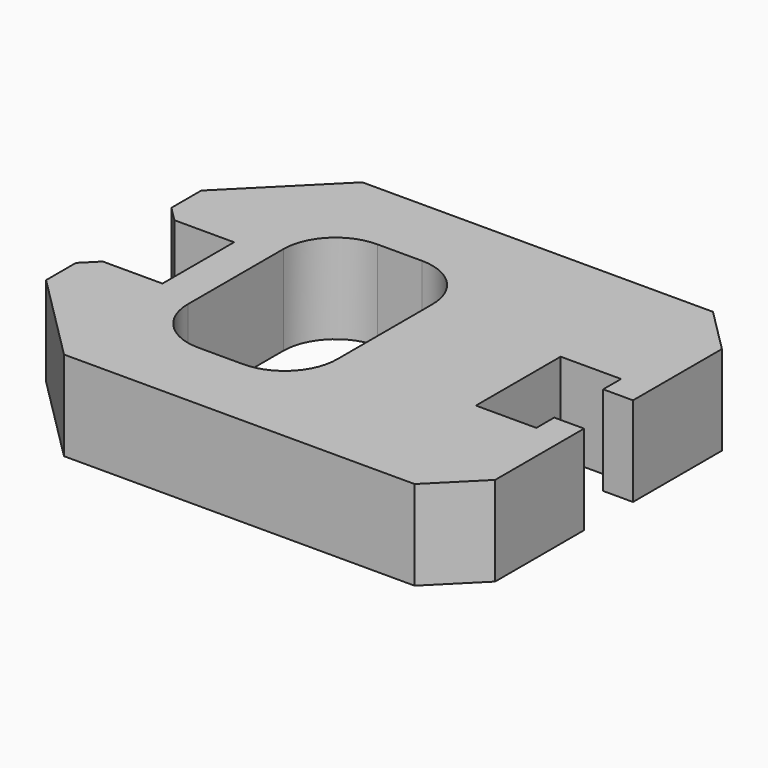
from build123d import *

# Parameters (mm, degrees)
F1_DEPTH = 12
F2_W     = 12
F2_H     = 12
F3_DEPTH = 25
F4_SIZE  = 6
F5_W     = 20
F5_H     = 30
F6_DEPTH = 30
F7_R     = 7
F9_DEPTH = 25
F10_SIZE = 12
F11_SIZE = 2


with BuildPart() as f1:
    # F0 (on Top) → F1 (new body)
    with BuildSketch(Plane.XY):
        Polygon((40, 25), (-40, 25), (-40, -25), (40, -25), (40, -4.1), (36, -4.1), (36, -7.1), (27.9, -7.1), (27.9, 7.1), (36, 7.1), (36, 4.1), (40, 4.1), align=None)
    extrude(amount=F1_DEPTH)

    # F2 (on face) → F3 (cut)
    with BuildSketch(Plane(origin=(-40, 0, 0), x_dir=(0, -1, 0), z_dir=(-1, 0, 0))):
        with Locations((0, 6)):
            Rectangle(F2_W, F2_H)
    extrude(amount=-F3_DEPTH, mode=Mode.SUBTRACT)

    # F4
    f4_edges = [f1.edges().sort_by_distance(p)[0] for p in [
        (-40, -25, 6),
        (-40, 25, 6),
        (-40, 6, 6),
        (-40, -6, 6),
        (40, -25, 6),
        (40, 25, 6),
    ]]
    chamfer(f4_edges, length=F4_SIZE)

    # F5 (on face) → F6 (cut)
    with BuildSketch(Plane(origin=(0, 0, 0), x_dir=(1, 0, 0), z_dir=(0, 0, -1))):
        Rectangle(F5_W, F5_H)
    extrude(amount=-F6_DEPTH, mode=Mode.SUBTRACT)

    # F7
    f7_edges = [f1.edges().sort_by_distance(p)[0] for p in [
        (10, 15, 6),
        (-10, 15, 6),
        (-10, -15, 6),
        (10, -15, 6),
    ]]
    fillet(f7_edges, radius=F7_R)

    # F8 (on face) → F9 (cut)
    with BuildSketch(Plane(origin=(0, 0, 0), x_dir=(1, 0, 0), z_dir=(0, 0, -1))):
        Polygon((-41.9909754243, -28.1055098634), (-25, -28.1055098634), (-25, -25), (-34, -25), (-40, -19), (-40, -12), (-34, -6), (-25, -6), (-25, 6), (-34, 6), (-40, 12), (-40, 19), (-34, 25), (-25, 25), (-25, 27.3810768734), (-41.9909754243, 27.3810768734), align=None)
        Polygon((-34, -25), (-25, -25), (-25, -6), (-34, -6), (-40, -12), (-40, -19), align=None)
        Polygon((-34, 6), (-25, 6), (-25, 25), (-34, 25), (-40, 19), (-40, 12), align=None)
    extrude(amount=-F9_DEPTH, mode=Mode.SUBTRACT)

    # F10
    f10_edges = [f1.edges().sort_by_distance(p)[0] for p in [
        (-25, 25, 6),
        (-25, -25, 6),
    ]]
    chamfer(f10_edges, length=F10_SIZE)

    # F11
    f11_edges = [f1.edges().sort_by_distance(p)[0] for p in [
        (-25, 6, 6),
        (-25, -6, 6),
    ]]
    chamfer(f11_edges, length=F11_SIZE)


solid = f1.part
